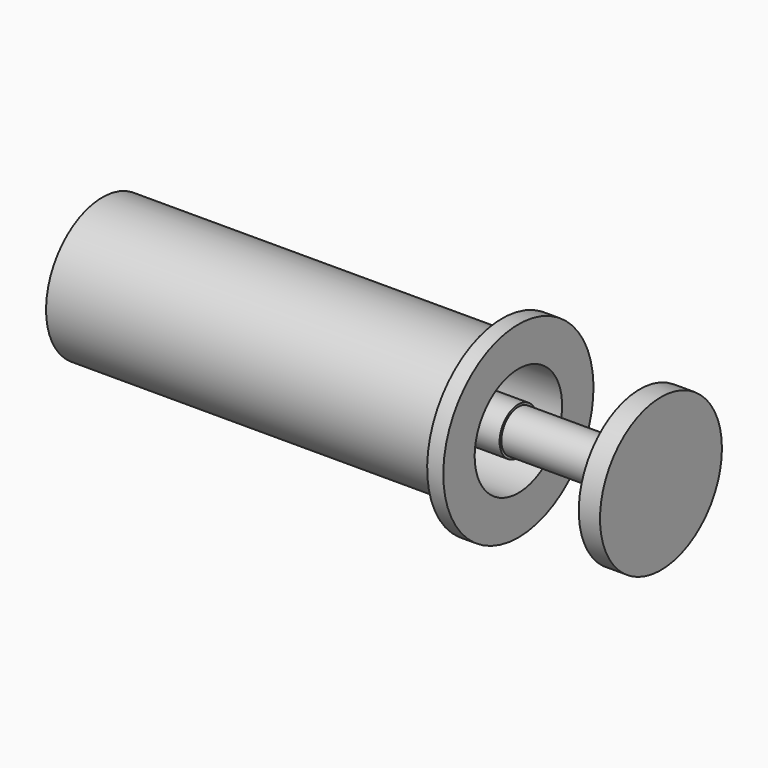
from build123d import *

# Parameters (mm, degrees)
F0_W     = 44.4768592715
F0_H     = 2.6589424815
F0_W_2   = 4.109274596
F0_H_2   = 7.7351056971
F2_R     = 3.5
F3_DEPTH = 20
F4_R     = 12.5571465135
F4_R_2   = 3.5
F5_DEPTH = 3.5
F6_R     = 9.0110970514
F6_R_2   = 3.8675533142
F7_DEPTH = 61.722
F8_DEPTH = 52.6288
F9_DEPTH = 13.208


with BuildPart() as f1:
    # F0 (on Front) → F1 (revolve)
    with BuildSketch(Plane.XZ):
        with Locations((-34.8079763353, 2.5380816078)):
            Rectangle(F0_W, F0_H)
        Polygon((-12.5695466995, 7.7351061627), (-12.5695466995, 3.8675528485), (-12.5695466995, 1.208610367), (-12.5695466995, -1.208610367), (-12.5695466995, -3.8675528485), (-12.5695466995, -7.7351061627), (-9.9106058478, -7.7351061627), (-9.9106058478, 7.7351061627), align=None)
        Polygon((-57.0464059711, 1.208610367), (-57.0464059711, 3.8675528485), (-61.155680567, 3.8675528485), (-61.155680567, -3.8675528485), (-57.0464059711, -3.8675528485), (-57.0464059711, -1.208610367), align=None)
        with Locations((-63.210317865, 0)):
            Rectangle(F0_W_2, F0_H_2)
        with Locations((-34.8079763353, -2.5380816078)):
            Rectangle(F0_W, F0_H)
    revolve(axis=Axis((-11.2400762737, 0, 7.7351061627), (1, 0, 0)))

    # F2 (on face) → F3 (join)
    with BuildSketch(Plane.YZ.offset(-9.9106058478)):
        with Locations((0, 7.7351061627)):
            Circle(F2_R)
    extrude(amount=F3_DEPTH)

    # F4 (on face) → F5 (join)
    with BuildSketch(Plane.YZ.offset(10.0893941522)):
        with Locations((0, 7.7351061627)):
            Circle(F4_R)
        with Locations((0, 7.7351061627)):
            Circle(F4_R_2, mode=Mode.SUBTRACT)
        with Locations((0, 7.7351061627)):
            Circle(F4_R_2)
    extrude(amount=F5_DEPTH)

    # F6 (on face) → F7 (cut)
    with BuildSketch(Plane(origin=(-65.264955163, 0, 0), x_dir=(0, -1, 0), z_dir=(-1, 0, 0))):
        with Locations((0, 7.7351061627)):
            Circle(F6_R)
        with Locations((0, 7.7351061627)):
            Circle(F6_R_2, mode=Mode.SUBTRACT)
    extrude(amount=-F7_DEPTH, mode=Mode.SUBTRACT)

    # F8 (add): a face of the model
    f8_faces = [f1.faces().sort_by_distance(p)[0] for p in [
        (-12.5695466995, 0, 7.7351061627),
    ]]
    extrude(f8_faces, amount=F8_DEPTH)

    # F9 (add): a face of the model
    f9_faces = [f1.faces().sort_by_distance(p)[0] for p in [
        (-65.264955163, 0, 19.0095924193),
    ]]
    extrude(f9_faces, amount=F9_DEPTH)


solid = f1.part
